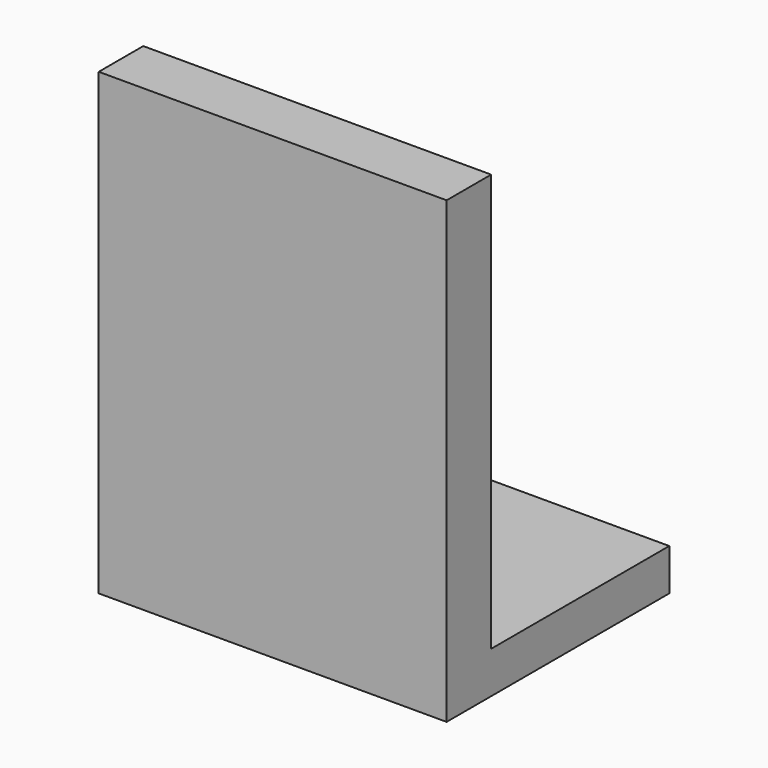
from build123d import *

# Parameters (mm, degrees)
F0_W     = 31.75
F0_H     = 19.05
F0_H_2   = 6.35
F1_DEPTH = 3.81
F2_W     = 31.75
F2_H     = 5.08
F3_DEPTH = 38.1


with BuildPart() as f1:
    # F0 (on Top) → F1 (new body)
    with BuildSketch(Plane.XY):
        with Locations((0, 3.175)):
            Rectangle(F0_W, F0_H)
        with Locations((0, -9.525)):
            Rectangle(F0_W, F0_H_2)
    extrude(amount=F1_DEPTH)

    # F2 (on face) → F3 (join)
    with BuildSketch(Plane.XY.offset(3.81)):
        with Locations((0, -10.16)):
            Rectangle(F2_W, F2_H)
    extrude(amount=F3_DEPTH)


solid = f1.part
